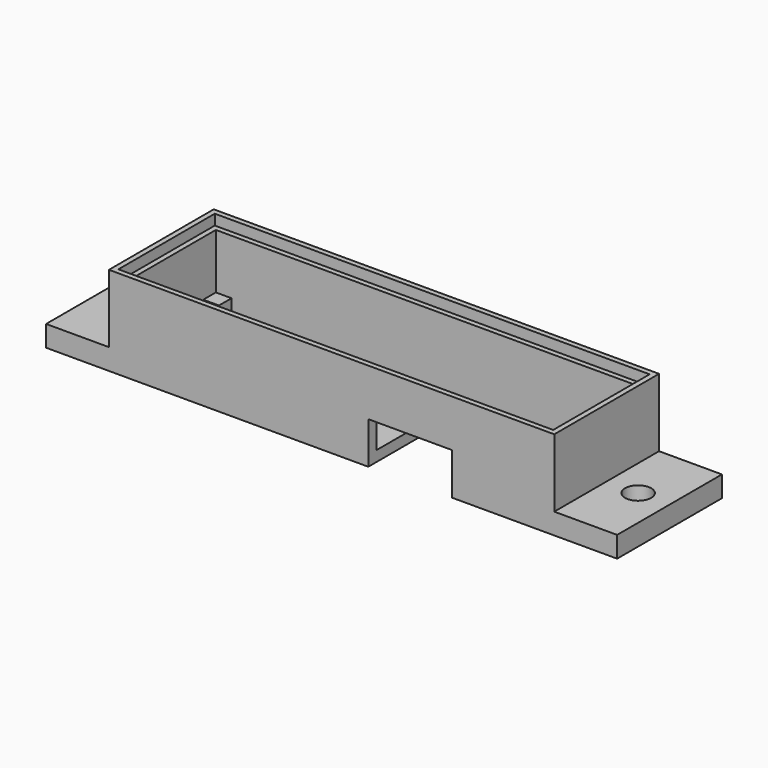
from build123d import *

# Parameters (mm, degrees)
SKETCH_W        = 85
SKETCH_H        = 25
PAD_DEPTH       = 17
SKETCH001_W     = 81
SKETCH001_H     = 21
POCKET_DEPTH    = 15
SKETCH002_W     = 16
SKETCH002_H     = 12
POCKET001_DEPTH = 8
SKETCH003_W     = 83
SKETCH003_H     = 23
POCKET002_DEPTH = 2
SKETCH004_W     = 5
SKETCH004_H     = 5
PAD001_DEPTH    = 2.5
SKETCH008_W     = 12
SKETCH008_H     = 25
PAD004_DEPTH    = 4
SKETCH010_W     = 12
SKETCH010_H     = 25
PAD005_DEPTH    = 4
SKETCH011_R     = 2.5
POCKET004_DEPTH = 4.001
SKETCH012_R     = 2.5
POCKET005_DEPTH = 4.001


with BuildPart() as part:
    # Sketch → Pad (new body)
    with BuildSketch(Plane.XY):
        with Locations((42.5, 12.5)):
            Rectangle(SKETCH_W, SKETCH_H)
    extrude(amount=PAD_DEPTH)

    # Sketch001 (on Face6 of Pad) → Pocket (cut)
    with BuildSketch(Plane.XY.offset(17)):
        with Locations((42.5, 12.5)):
            Rectangle(SKETCH001_W, SKETCH001_H)
    extrude(amount=-POCKET_DEPTH, mode=Mode.SUBTRACT)

    # Sketch002 → Pocket001 (cut)
    with BuildSketch(Plane.XY):
        with Locations((57.5, 6)):
            Rectangle(SKETCH002_W, SKETCH002_H)
    extrude(amount=POCKET001_DEPTH, mode=Mode.SUBTRACT)

    # Sketch003 (on Face7 of Pocket001) → Pocket002 (cut)
    with BuildSketch(Plane.XY.offset(17)):
        with Locations((42.5, 12.5)):
            Rectangle(SKETCH003_W, SKETCH003_H)
    extrude(amount=-POCKET002_DEPTH, mode=Mode.SUBTRACT)

    # Sketch004 (on Face12 of Pocket002) → Pad001 (join)
    with BuildSketch(Plane.XY.offset(2)):
        with Locations((2.5, 2.5)):
            Rectangle(SKETCH004_W, SKETCH004_H)
        with Locations((2.5, 22.5)):
            Rectangle(SKETCH004_W, SKETCH004_H)
        with Locations((82.5, 2.5)):
            Rectangle(SKETCH004_W, SKETCH004_H)
        with Locations((82.5, 22.5)):
            Rectangle(SKETCH004_W, SKETCH004_H)
    extrude(amount=PAD001_DEPTH)

    # Sketch008 → Pad004 (join)
    with BuildSketch(Plane.XY):
        with Locations((-6, 12.5)):
            Rectangle(SKETCH008_W, SKETCH008_H)
    extrude(amount=PAD004_DEPTH)

    # Sketch010 → Pad005 (join)
    with BuildSketch(Plane.XY):
        with Locations((91, 12.5)):
            Rectangle(SKETCH010_W, SKETCH010_H)
    extrude(amount=PAD005_DEPTH)

    # Sketch011 (on Face27 of Pad005) → Pocket004 (cut, through all)
    with BuildSketch(Plane.XY.offset(4)):
        with Locations((-6, 12.5)):
            Circle(SKETCH011_R)
    extrude(amount=-POCKET004_DEPTH, mode=Mode.SUBTRACT)

    # Sketch012 (on Face20 of Pocket004) → Pocket005 (cut, through all)
    with BuildSketch(Plane.XY.offset(4)):
        with Locations((91, 12.5)):
            Circle(SKETCH012_R)
    extrude(amount=-POCKET005_DEPTH, mode=Mode.SUBTRACT)


solid = part.part
